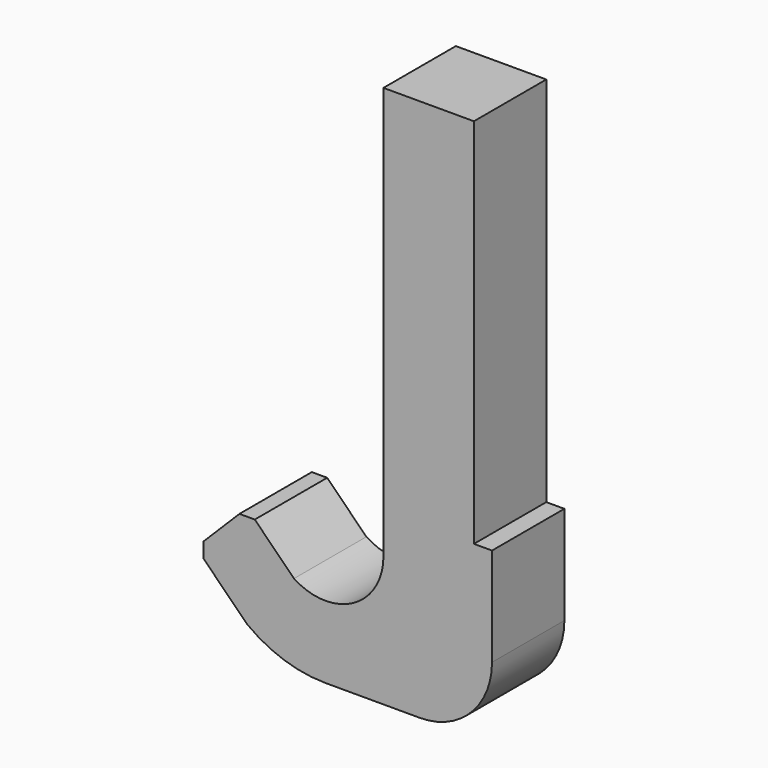
from build123d import *

# Parameters (mm, degrees)
F1_DEPTH = 25
F2_SIZE  = 3


with BuildPart() as f1:
    # F0 (on Front) → F1 (new body)
    with BuildSketch(Plane.XZ):
        with BuildLine():
            Line((24.999999, 114.006721), (0, 114))
            Line((0, 114), (0, 0))
            ThreePointArc((0, 0), (-8.366994, -14.061906), (-24.717152, -13.416828))
            Line((-24.717152, -13.416828), (-37.673591, -0.460388))
            Line((-37.673591, -0.460388), (-51.815727, -14.602524))
            Line((-51.815727, -14.602524), (-37.673591, -28.744659))
            ThreePointArc((-37.673591, -28.744659), (-27.427867, -34.138012), (-16, -36))
            Line((-16, -36), (9.999999, -36))
            ThreePointArc((9.999999, -36), (24.142135, -30.142136), (29.999999, -16))
            Line((29.999999, -16), (29.999999, 11.187497))
            Line((29.999999, 11.187497), (24.999999, 11.187497))
            Line((24.999999, 11.187497), (24.999999, 114.006721))
        make_face()
    extrude(amount=F1_DEPTH)

    # F2
    f2_edges = [f1.edges().sort_by_distance(p)[0] for p in [
        (-37.673591, -12.5, -0.460388),
        (-51.815727, -12.5, -14.602524),
    ]]
    chamfer(f2_edges, length=F2_SIZE)


solid = f1.part
